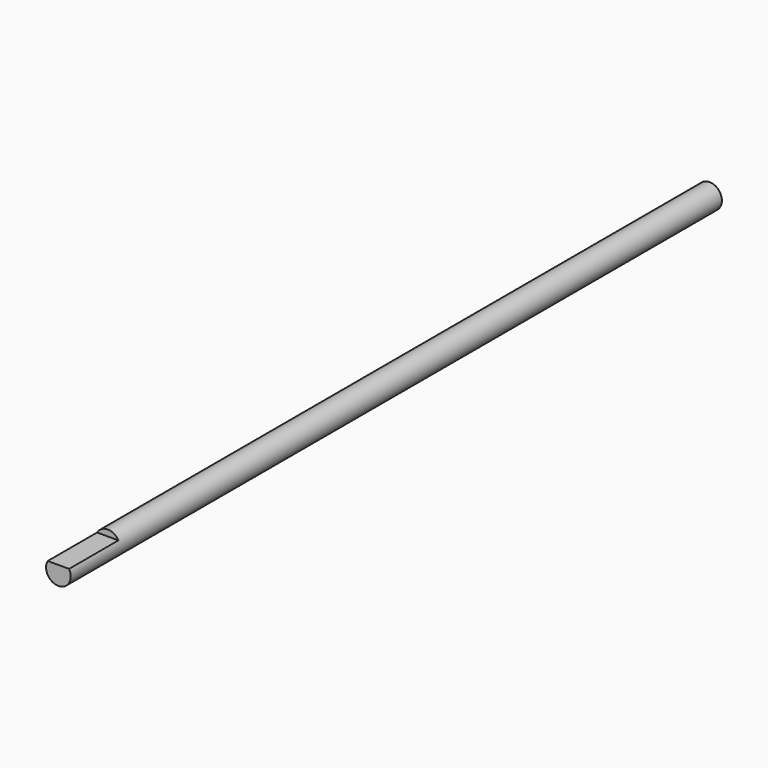
from build123d import *

# Parameters (mm, degrees)
F0_R     = 4
F1_DEPTH = 147
F3_DEPTH = 20
F4_DEPTH = 30


with BuildPart() as f1:
    # F0 (on Front) → F1 (new body, symmetric)
    with BuildSketch(Plane.XZ):
        Circle(F0_R)
    extrude(amount=F1_DEPTH, both=True)

    # F2 (on face) → F3 (cut)
    with BuildSketch(Plane.XZ.offset(147)):
        with BuildLine():
            Line((-3.4641016151, 2), (3.4641016151, 2))
            ThreePointArc((3.4641016151, 2), (0, 4), (-3.4641016151, 2))
        make_face()
    extrude(amount=-F3_DEPTH, mode=Mode.SUBTRACT)

    # F4 (cut): a face of the model
    f4_faces = [f1.faces().sort_by_distance(p)[0] for p in [
        (0, 147, 0),
    ]]
    extrude(f4_faces, amount=-F4_DEPTH, mode=Mode.SUBTRACT)


solid = f1.part
